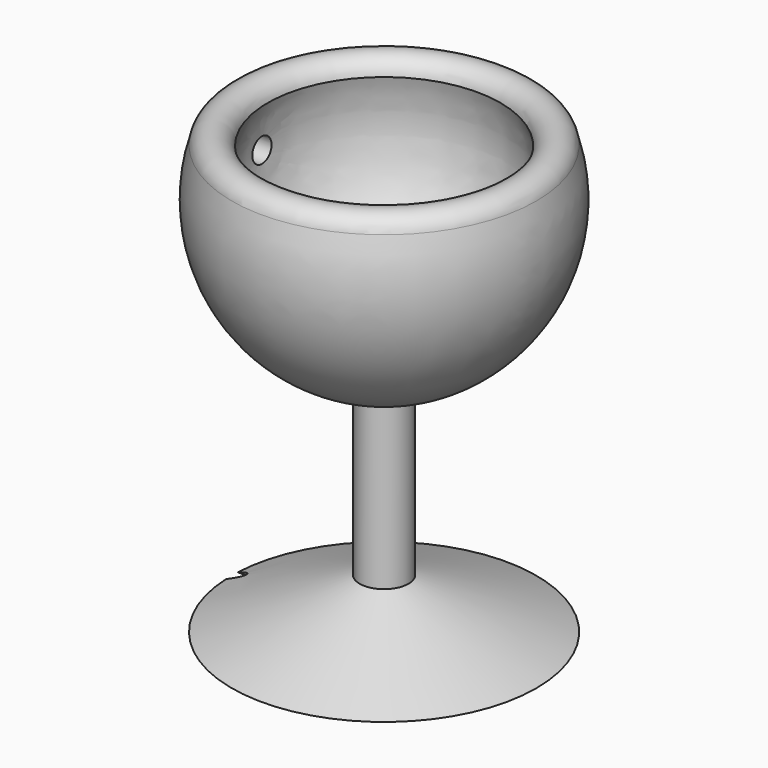
from build123d import *

# Parameters (mm, degrees)
F4_R      = 1.125856883
F7_R      = 2.3104333765
F8_DEPTH  = 8.89
F9_R      = 3.6659023514
F10_DEPTH = 45.72
F11_R     = 3.9647010811
F12_DEPTH = 45.72
F14_R     = 1.4409185756
F15_DEPTH = 33.274


with BuildPart() as f1:
    # F0 (on Front) → F1 (revolve)
    with BuildSketch(Plane.XZ):
        with BuildLine():
            ThreePointArc((22.3673284054, 63.751809299), (19.2754132313, 41.2601981534), (0, 29.2647425085))
            Line((0, 29.2647425085), (0, -18.4259489179))
            Line((0, -18.4259489179), (29.2647425085, -18.4259489179))
            Line((29.2647425085, -18.4259489179), (4.6804204201, -8.7695692818))
            Line((4.6804204201, -8.7695692818), (4.6804204201, 23.6401213464))
            ThreePointArc((4.6804204201, 23.6401213464), (26.0376027725, 38.2657400745), (29.2647425085, 63.9488771558))
            ThreePointArc((29.2647425085, 63.9488771558), (25.7335092874, 66.7387755432), (22.3673284054, 63.751809299))
        make_face()
    revolve(axis=Axis((0, 0, 5.4193967953), (0, 0, 1)))

    # F5: sweep along a path in F2
    with BuildLine(Plane.XZ) as f5_path:
        ThreePointArc((-29.066408053, 56.0548827052), (-20.5620869961, 35.163152965), (0, 25.8901584893))
    # F4 (on offset) → F5 (sweep, cut)
    with BuildSketch(Plane.XY.offset(56.134)):
        with Locations((-29.0387254208, 0)):
            Circle(F4_R)
    sweep(path=f5_path.line, mode=Mode.SUBTRACT)

    # F7 (on offset) → F8 (cut)
    with BuildSketch(Plane.YZ.offset(-19.812)):
        with Locations((0, 55.3987175226)):
            Circle(F7_R)
    extrude(amount=-F8_DEPTH, mode=Mode.SUBTRACT)

    # F9 (on face) → F10 (join)
    with BuildSketch(Plane(origin=(0, 0, -18.4259489179), x_dir=(1, 0, 0), z_dir=(0, 0, -1))):
        Circle(F9_R)
    extrude(amount=-F10_DEPTH)

    # F11 (on face) → F12 (cut)
    with BuildSketch(Plane(origin=(0, 0, -18.4259489179), x_dir=(1, 0, 0), z_dir=(0, 0, -1))):
        Circle(F11_R)
    extrude(amount=-F12_DEPTH, mode=Mode.SUBTRACT)

    # F14 (on offset) → F15 (cut)
    with BuildSketch(Plane.YZ.offset(-31.242)):
        with Locations((0, -18.7359713018)):
            Circle(F14_R)
    extrude(amount=F15_DEPTH, mode=Mode.SUBTRACT)


solid = f1.part
